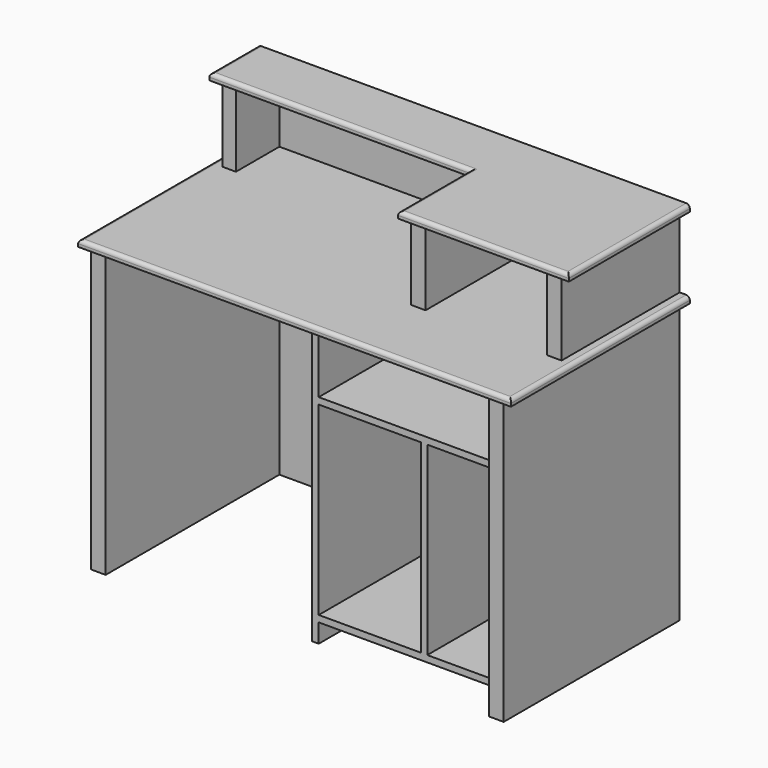
from build123d import *

# Parameters (mm, degrees)
F0_W      = 18
F0_H      = 564
F1_DEPTH  = 780
F2_W      = 18
F2_H      = 512
F3_DEPTH  = 564
F5_DEPTH  = 18
F6_R      = 10
F7_W      = 40
F7_H      = 250
F7_H_2    = 150
F8_DEPTH  = 205
F10_DEPTH = 18
F11_R     = 10


with BuildPart() as f1:
    # F0 (on Top) → F1 (new body)
    with BuildSketch(Plane.XY):
        Polygon((-40, 0), (0, 0), (0, 608), (-1140, 608), (-1140, 0), (-1100, 0), (-1100, 600), (-558, 600), (-540, 600), (-40, 600), align=None)
        with Locations((-549, 318)):
            Rectangle(F0_W, F0_H)
    extrude(amount=F1_DEPTH)

    # F2 (on face) → F3 (join)
    with BuildSketch(Plane.XZ.offset(-600)):
        Polygon((-540, 70), (-540, 52), (-40, 52), (-40, 70), (-240, 70), (-258, 70), align=None)
        with Locations((-249, 326)):
            Rectangle(F2_W, F2_H)
        Polygon((-540, 582), (-258, 582), (-240, 582), (-40, 582), (-40, 600), (-540, 600), align=None)
    extrude(amount=F3_DEPTH)

    # F4 (on face) → F5 (join)
    with BuildSketch(Plane.XY.offset(780)):
        Polygon((28, 608), (0, 608), (-1140, 608), (-1168, 608), (-1168, -10), (28, -10), align=None)
    extrude(amount=F5_DEPTH)

    # F6
    f6_edges = [f1.edges().sort_by_distance(p)[0] for p in [
        (-570, -10, 798),
        (-1168, 299, 798),
        (28, 299, 798),
    ]]
    fillet(f6_edges, radius=F6_R)

    # F7 (on face) → F8 (join)
    with BuildSketch(Plane.XY.offset(798)):
        Polygon((-1100, 600), (-1100, 608), (-1137.470126, 608), (-1137.470126, 450), (-1100, 450), align=None)
        with Locations((-395.89883, 325)):
            Rectangle(F7_W, F7_H)
        with Locations((-395.89883, 525)):
            Rectangle(F7_W, F7_H_2)
        Polygon((0, 450), (0, 608), (-40, 608), (-40, 600), (-40, 450), align=None)
        with Locations((-20, 325)):
            Rectangle(F7_W, F7_H)
        Polygon((-40, 600), (-40, 608), (-1100, 608), (-1100, 600), (-415.89883, 600), (-375.89883, 600), align=None)
    extrude(amount=F8_DEPTH)

    # F9 (on face) → F10 (join)
    with BuildSketch(Plane.XY.offset(1003)):
        Polygon((0, 608), (-1137.470126, 608), (-1165.470126, 608), (-1165.470126, 440), (-443.89883, 440), (-443.89883, 190), (28, 190), (28, 608), align=None)
    extrude(amount=F10_DEPTH)

    # F11
    f11_edges = [f1.edges().sort_by_distance(p)[0] for p in [
        (-1165.470126, 524, 1021),
        (-804.684478, 440, 1021),
        (-443.89883, 315, 1021),
        (-207.949415, 190, 1021),
        (28, 399, 1021),
    ]]
    fillet(f11_edges, radius=F11_R)


solid = f1.part
